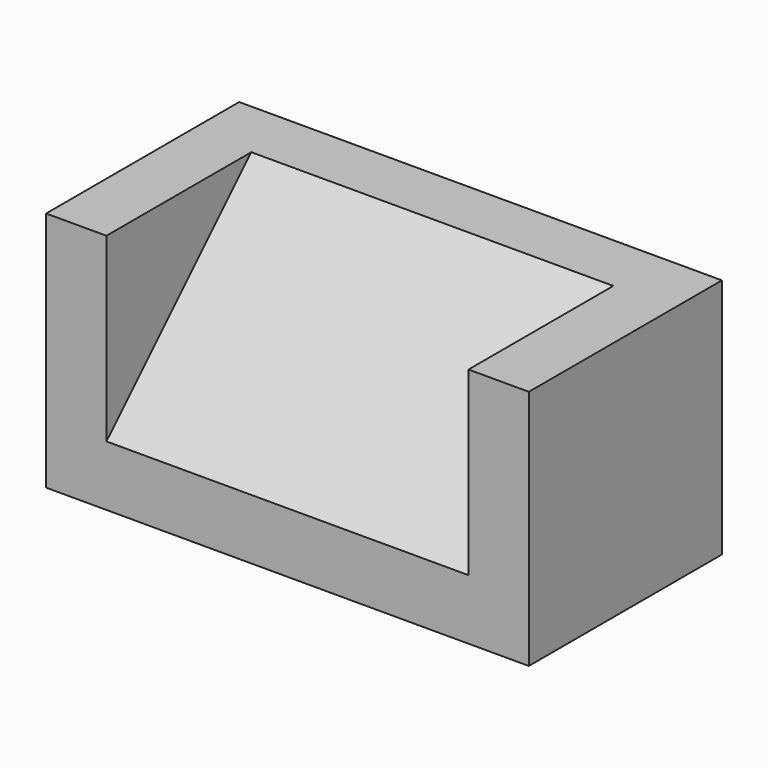
from build123d import *

# Parameters (mm, degrees)
F0_W     = 203.2
F0_H     = 101.6
F1_DEPTH = 101.6
F2_W     = 152.4
F2_H     = 76.2
F3_DEPTH = 76.2
F5_DEPTH = 152.4


with BuildPart() as f1:
    # F0 (on Front) → F1 (new body)
    with BuildSketch(Plane.XZ):
        with Locations((-24.153554, 22.60086)):
            Rectangle(F0_W, F0_H)
    extrude(amount=F1_DEPTH)

    # F2 (on face) → F3 (cut)
    with BuildSketch(Plane.XZ.offset(101.6)):
        with Locations((-24.153554, 35.30086)):
            Rectangle(F2_W, F2_H)
    extrude(amount=-F3_DEPTH, mode=Mode.SUBTRACT)

    # F4 (on face) → F5 (join)
    with BuildSketch(Plane.YZ.offset(-100.353554)):
        Polygon((-25.4, 73.40086), (-101.6, -2.79914), (-25.4, -2.79914), align=None)
    extrude(amount=F5_DEPTH)


solid = f1.part
